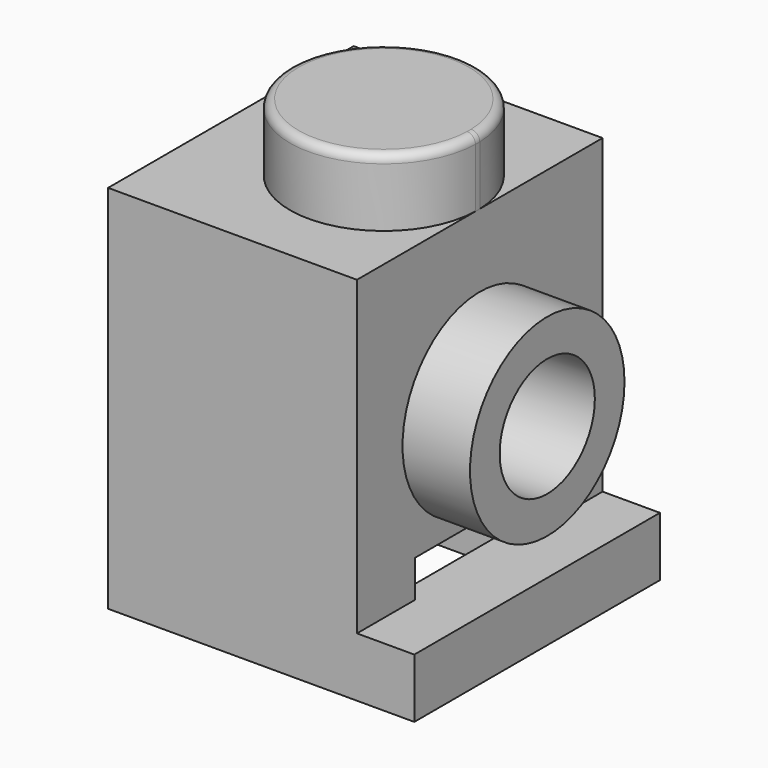
from build123d import *

# Parameters (mm, degrees)
F1_DEPTH  = 7.87
F2_W      = 4.88
F2_H      = 4.91
F3_DEPTH  = 5.81
F4_W      = 4.39
F4_H      = 0.95
F5_DEPTH  = 1.95
F6_W      = 4.74
F6_H      = 4.82
F7_DEPTH  = 8.11
F8_R      = 2.475
F9_DEPTH  = 1.73
F10_R     = 1.525
F11_DEPTH = 25
F12_R     = 2.405
F13_DEPTH = 1.73
F14_R     = 0.217279


with BuildPart() as f1:
    # F0 (on Front) → F1 (new body)
    with BuildSketch(Plane.XZ):
        Polygon((-28.082503, 33.1), (-34.462503, 33.1), (-34.462503, 23.6), (-26.612503, 23.6), (-26.612503, 25.12), (-28.082503, 25.12), align=None)
    extrude(amount=F1_DEPTH)

    # F2 (on face) → F3 (cut)
    with BuildSketch(Plane(origin=(-34.462503, 0, 0), x_dir=(0, -1, 0), z_dir=(-1, 0, 0))):
        with Locations((3.98, 29.095)):
            Rectangle(F2_W, F2_H)
    extrude(amount=-F3_DEPTH, mode=Mode.SUBTRACT)

    # F4 (on face) → F5 (cut)
    with BuildSketch(Plane.YZ.offset(-28.082503)):
        with Locations((-3.815, 25.595)):
            Rectangle(F4_W, F4_H)
    extrude(amount=-F5_DEPTH, mode=Mode.SUBTRACT)

    # F6 (on face) → F7 (cut)
    with BuildSketch(Plane(origin=(0, 0, 23.6), x_dir=(1, 0, 0), z_dir=(0, 0, -1))):
        with Locations((-30.885357, 3.99)):
            Rectangle(F6_W, F6_H)
        with Locations((-30.885357, 3.99)):
            Rectangle(F6_W, F6_H)
    extrude(amount=-F7_DEPTH, mode=Mode.SUBTRACT)

    # F8 (on face) → F9 (join)
    with BuildSketch(Plane.YZ.offset(-28.082503)):
        with Locations((-3.935, 28.755)):
            Circle(F8_R)
    extrude(amount=F9_DEPTH)

    # F10 (on face) → F11 (cut)
    with BuildSketch(Plane.YZ.offset(-26.352503)):
        with Locations((-3.935, 28.755)):
            Circle(F10_R)
    extrude(amount=-F11_DEPTH, mode=Mode.SUBTRACT)

    # F12 (on face) → F13 (join)
    with BuildSketch(Plane.XY.offset(33.1)):
        with Locations((-30.486484, -4.005)):
            Circle(F12_R)
        with BuildLine():
            Line((-28.082503, -4.075), (-28.082503, -3.935))
            ThreePointArc((-28.082503, -3.935), (-32.891484, -4.005), (-28.082503, -4.075))
        make_face()
    extrude(amount=F13_DEPTH)

    # F14
    f14_edges = [f1.edges().sort_by_distance(p)[0] for p in [
        (-32.891484, -4.005, 34.83),
    ]]
    fillet(f14_edges, radius=F14_R)


solid = f1.part
